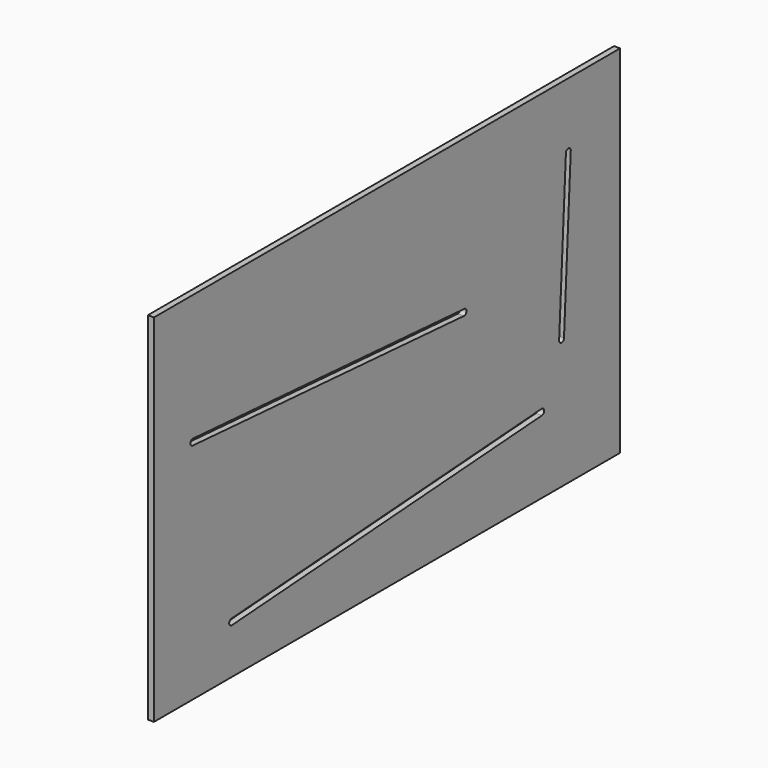
from build123d import *

# Parameters (mm, degrees)
F0_W     = 457.2
F0_H     = 279.4
F1_DEPTH = 4.7752
F5_DEPTH = 4.7762


with BuildPart() as f1:
    # F0 (on Right) → F1 (new body)
    with BuildSketch(Plane.YZ):
        with Locations((228.6, 139.7)):
            Rectangle(F0_W, F0_H)
    extrude(amount=F1_DEPTH)

    # F4 (on face) + F3 (on face) + F2 (on face) → F5 (cut, through all)
    with BuildSketch(Plane.YZ.offset(4.7752)):
        with BuildLine():
            Line((402.138836, 101.671506), (408.784328, 228.475043))
            ThreePointArc((408.784328, 228.475043), (406.524957, 230.984328), (404.015672, 228.724957))
            Line((404.015672, 228.724957), (397.37018, 101.921421))
            ThreePointArc((397.37018, 101.921421), (399.629551, 99.412136), (402.138836, 101.671506))
        make_face()
    with BuildSketch(Plane.YZ.offset(4.7752)):
        with BuildLine():
            Line((380.081643, 61.742905), (76.033449, 40.481784))
            ThreePointArc((76.033449, 40.481784), (73.818216, 37.933449), (76.366551, 35.718216))
            Line((76.366551, 35.718216), (380.414744, 56.979337))
            ThreePointArc((380.414744, 56.979337), (382.629978, 59.527671), (380.081643, 61.742905))
        make_face()
    with BuildSketch(Plane.YZ.offset(4.7752)):
        with BuildLine():
            Line((304.306221, 161.578478), (38.266551, 180.181784))
            ThreePointArc((38.266551, 180.181784), (35.718216, 177.966551), (37.933449, 175.418216))
            Line((37.933449, 175.418216), (303.97312, 156.81491))
            ThreePointArc((303.97312, 156.81491), (306.521455, 159.030143), (304.306221, 161.578478))
        make_face()
    extrude(amount=-F5_DEPTH, mode=Mode.SUBTRACT)


solid = f1.part
